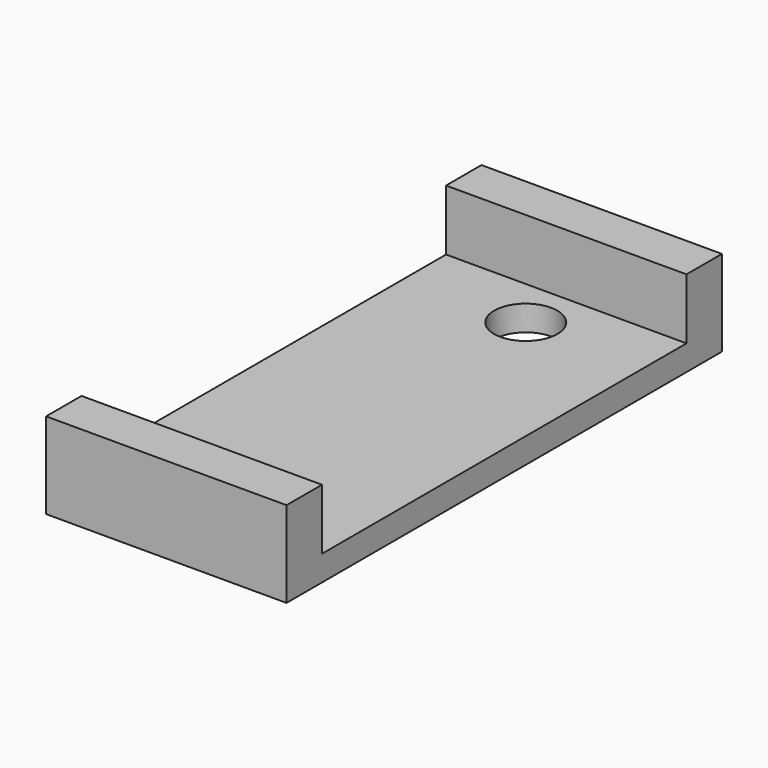
from build123d import *

# Parameters (mm, degrees)
F0_W     = 3.5
F0_H     = 4.8
F1_DEPTH = 19
F3_D     = 5
F3_DEPTH = 10
F3_TIP   = 1.5021515476


with BuildPart() as f1:
    # F0 (on Right) → F1 (new body)
    with BuildSketch(Plane.YZ):
        with Locations((-19.75, 3.4)):
            Rectangle(F0_W, F0_H)
        Polygon((21.5, -1), (21.5, 1), (18, 1), (-18, 1), (-21.5, 1), (-21.5, -1), align=None)
        with Locations((19.75, 3.4)):
            Rectangle(F0_W, F0_H)
    extrude(amount=F1_DEPTH)

    # F3
    with Locations(Plane(origin=(0, 0, -1), x_dir=(1, 0, 0), z_dir=(0, 0, -1))):
        with Locations((9.5, 14), (9.5, -14)):
            Hole(F3_D / 2, depth=F3_DEPTH)
            with Locations((0, 0, -(F3_DEPTH + F3_TIP / 2))):  # 118° drill point
                Cone(0, F3_D / 2, F3_TIP, mode=Mode.SUBTRACT)


solid = f1.part
